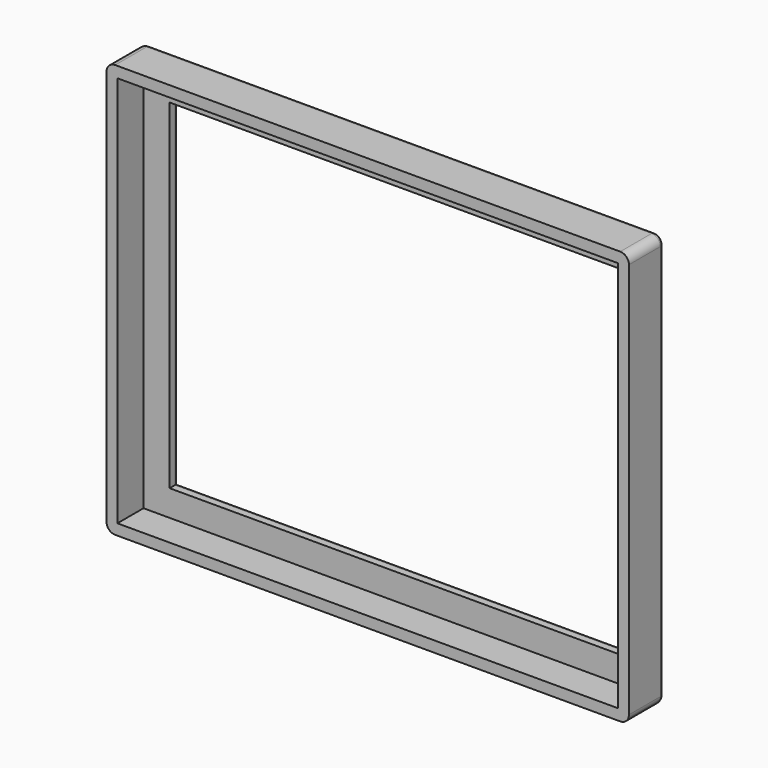
from build123d import *

# Parameters (mm, degrees)
F0_W     = 120
F0_H     = 95
F1_DEPTH = 10
F2_W     = 115
F2_H     = 90
F3_DEPTH = 7.5
F4_W     = 103
F4_H     = 78
F5_DEPTH = 2.501
F6_R     = 2
F7_R     = 1


with BuildPart() as f1:
    # F0 (on Front) → F1 (new body)
    with BuildSketch(Plane.XZ):
        Rectangle(F0_W, F0_H)
    extrude(amount=F1_DEPTH)

    # F2 (on face) → F3 (cut)
    with BuildSketch(Plane.XZ.offset(10)):
        Rectangle(F2_W, F2_H)
    extrude(amount=-F3_DEPTH, mode=Mode.SUBTRACT)

    # F4 (on face) → F5 (cut, through all)
    with BuildSketch(Plane.XZ.offset(2.5)):
        Rectangle(F4_W, F4_H)
    extrude(amount=-F5_DEPTH, mode=Mode.SUBTRACT)

    # F6
    f6_edges = [f1.edges().sort_by_distance(p)[0] for p in [
        (60, -5, 47.5),
        (60, -5, -47.5),
        (-60, -5, -47.5),
        (-60, -5, 47.5),
    ]]
    fillet(f6_edges, radius=F6_R)

    # F7
    f7_edges = [f1.edges().sort_by_distance(p)[0] for p in [
        (0, 0, 47.5),
        (59.414214, 0, 46.914214),
        (-59.414214, 0, 46.914214),
        (60, 0, 0),
        (-60, 0, 0),
        (59.414214, 0, -46.914214),
        (-59.414214, 0, -46.914214),
        (0, 0, -47.5),
        (0, 0, 39),
        (-51.5, 0, 0),
        (0, 0, -39),
        (51.5, 0, 0),
    ]]
    fillet(f7_edges, radius=F7_R)


solid = f1.part
